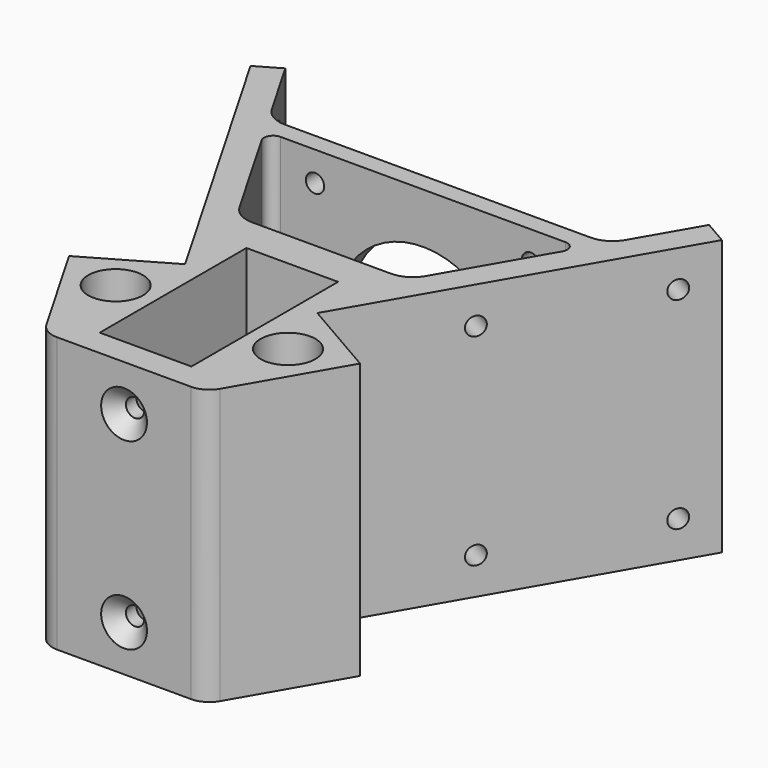
from build123d import *

# Parameters (mm, degrees)
F0_W            = 20
F0_H            = 40
F1_DEPTH        = 60
F2_R            = 5
F3_R            = 6
F4_R            = 2
F5_R            = 5.975
F6_DEPTH        = 60.001
F8_D            = 4
F8_DEPTH        = 12
F8_TIP          = 1.2017212381
F9_R            = 19
F10_DEPTH       = 25
F12_D           = 4
F12_DEPTH       = 12
F12_TIP         = 1.2017212381
F14_D           = 4
F14_DEPTH       = 12
F14_TIP         = 1.2017212381
F16_D           = 4
F16_DEPTH       = 12
F16_CSINK_D     = 10
F16_CSINK_ANGLE = 90
F16_TIP         = 1.2017212381


with BuildPart() as f1:
    # F0 (on Top) → F1 (new body)
    with BuildSketch(Plane.XY):
        Polygon((-17.5, 30.3108891325), (17.5, 30.3108891325), (31.75, 54.9926131403), (14.4294919243, 64.9926131403), (51.4294919243, 129.0784930204), (46.2333395016, 132.0784930204), (36.8527810232, 115.8308891325), (-36.8527810232, 115.8308891325), (-46.2333395016, 132.0784930204), (-51.4294919243, 129.0784930204), (-14.4294919243, 64.9926131403), (-31.75, 54.9926131403), align=None)
        with Locations((0, 56.1808891325)):
            Rectangle(F0_W, F0_H, mode=Mode.SUBTRACT)
        Polygon((34.5433799465, 111.8308891325), (18.5796450034, 84.1808891325), (-18.5796450034, 84.1808891325), (-34.5433799465, 111.8308891325), align=None, mode=Mode.SUBTRACT)
    extrude(amount=F1_DEPTH)

    # F2
    f2_edges = [f1.edges().sort_by_distance(p)[0] for p in [
        (-17.5, 30.310889, 30),
        (17.5, 30.310889, 30),
    ]]
    fillet(f2_edges, radius=F2_R)

    # F3
    f3_edges = [f1.edges().sort_by_distance(p)[0] for p in [
        (18.579645, 84.180889, 30),
        (-18.579645, 84.180889, 30),
        (-36.852781, 115.830889, 30),
        (36.852781, 115.830889, 30),
    ]]
    fillet(f3_edges, radius=F3_R)

    # F4
    f4_edges = [f1.edges().sort_by_distance(p)[0] for p in [
        (34.54338, 111.830889, 30),
        (-34.54338, 111.830889, 30),
    ]]
    fillet(f4_edges, radius=F4_R)

    # F5 (on face) → F6 (cut, through all)
    with BuildSketch(Plane.XY.offset(60)):
        with Locations((-18.8069092991, 51.5245224395)):
            Circle(F5_R)
        with Locations((18.8069092991, 51.5245224395)):
            Circle(F5_R)
    extrude(amount=-F6_DEPTH, mode=Mode.SUBTRACT)

    # F8
    with Locations(Plane(origin=(0, 115.8308891325, 0), x_dir=(-1, 0, 0), z_dir=(0, 1, 0))):
        with Locations((-23.55, 53.55), (-23.55, 6.45), (23.55, 6.45), (23.55, 53.55)):
            Hole(F8_D / 2, depth=F8_DEPTH)
            with Locations((0, 0, -(F8_DEPTH + F8_TIP / 2))):  # 118° drill point
                Cone(0, F8_D / 2, F8_TIP, mode=Mode.SUBTRACT)

    # F9 (on face) → F10 (cut)
    with BuildSketch(Plane(origin=(0, 115.8308891325, 0), x_dir=(-1, 0, 0), z_dir=(0, 1, 0))):
        with Locations((0, 30)):
            Circle(F9_R)
    extrude(amount=-F10_DEPTH, mode=Mode.SUBTRACT)

    # F12
    with Locations(Plane(origin=(-17.3205080757, 10, 0), x_dir=(0.5, 0.8660254038, 0), z_dir=(0.8660254038, -0.5, 0))):
        with Locations((92.5, 52), (129.5, 52), (92.5, 8), (129.5, 8)):
            Hole(F12_D / 2, depth=F12_DEPTH)
            with Locations((0, 0, -(F12_DEPTH + F12_TIP / 2))):  # 118° drill point
                Cone(0, F12_D / 2, F12_TIP, mode=Mode.SUBTRACT)

    # F14
    with Locations(Plane(origin=(17.3205080757, 10, 0), x_dir=(0.5, -0.8660254038, 0), z_dir=(-0.8660254038, -0.5, 0))):
        with Locations((-92.5, 8), (-129.5, 8), (-92.5, 51.9081939641), (-129.5, 51.9081939641)):
            Hole(F14_D / 2, depth=F14_DEPTH)
            with Locations((0, 0, -(F14_DEPTH + F14_TIP / 2))):  # 118° drill point
                Cone(0, F14_D / 2, F14_TIP, mode=Mode.SUBTRACT)

    # F16
    with Locations(Plane.XZ.offset(-30.3108891325)):
        with Locations((0, 10), (0, 50)):
            CounterSinkHole(F16_D / 2, F16_CSINK_D / 2, depth=F16_DEPTH, counter_sink_angle=F16_CSINK_ANGLE)
            with Locations((0, 0, -(F16_DEPTH + F16_TIP / 2))):  # 118° drill point
                Cone(0, F16_D / 2, F16_TIP, mode=Mode.SUBTRACT)


solid = f1.part
